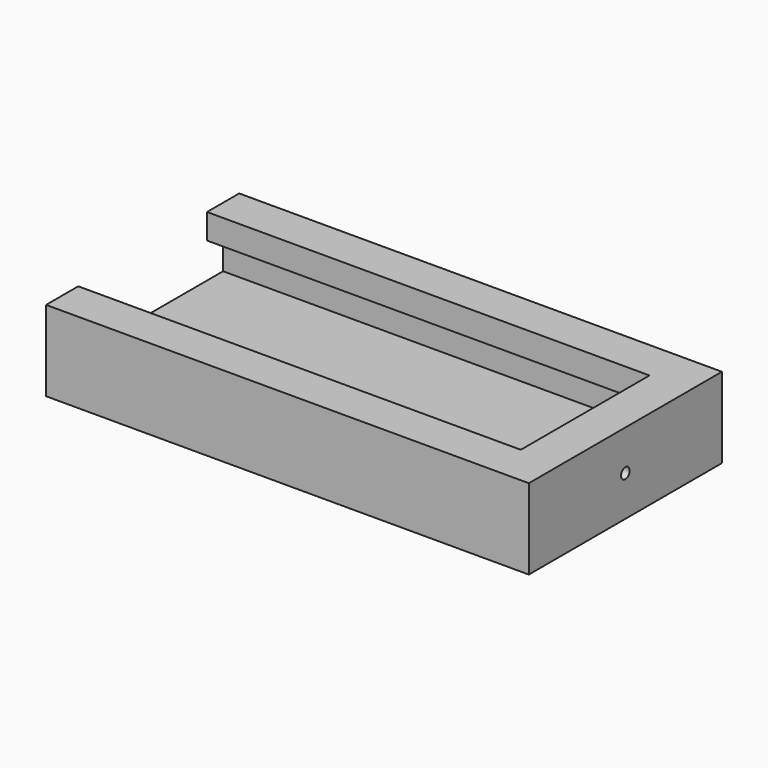
from build123d import *

# Parameters (mm, degrees)
F0_W     = 152.4
F0_H     = 76.2
F1_DEPTH = 25.4
F2_W     = 139.7
F2_H     = 50.8
F3_DEPTH = 19.05
F4_W     = 6.35
F4_H     = 11.1125
F5_DEPTH = 139.7
F6_R     = 1.7018
F7_DEPTH = 12.7


with BuildPart() as f1:
    # F0 (on Top) → F1 (new body)
    with BuildSketch(Plane.XY):
        Rectangle(F0_W, F0_H)
    extrude(amount=F1_DEPTH)

    # F2 (on face) → F3 (cut)
    with BuildSketch(Plane.XY.offset(25.4)):
        with Locations((-6.35, 0)):
            Rectangle(F2_W, F2_H)
    extrude(amount=-F3_DEPTH, mode=Mode.SUBTRACT)

    # F4 (on face) → F5 (cut)
    with BuildSketch(Plane(origin=(-76.2, 0, 0), x_dir=(0, -1, 0), z_dir=(-1, 0, 0))):
        with Locations((-28.575, 11.90625)):
            Rectangle(F4_W, F4_H)
        with Locations((28.575, 11.90625)):
            Rectangle(F4_W, F4_H)
    extrude(amount=-F5_DEPTH, mode=Mode.SUBTRACT)

    # F6 (on face) → F7 (cut)
    with BuildSketch(Plane(origin=(63.5, 0, 0), x_dir=(0, -1, 0), z_dir=(-1, 0, 0))):
        with Locations((0, 12.7)):
            Circle(F6_R)
    extrude(amount=-F7_DEPTH, mode=Mode.SUBTRACT)


solid = f1.part
